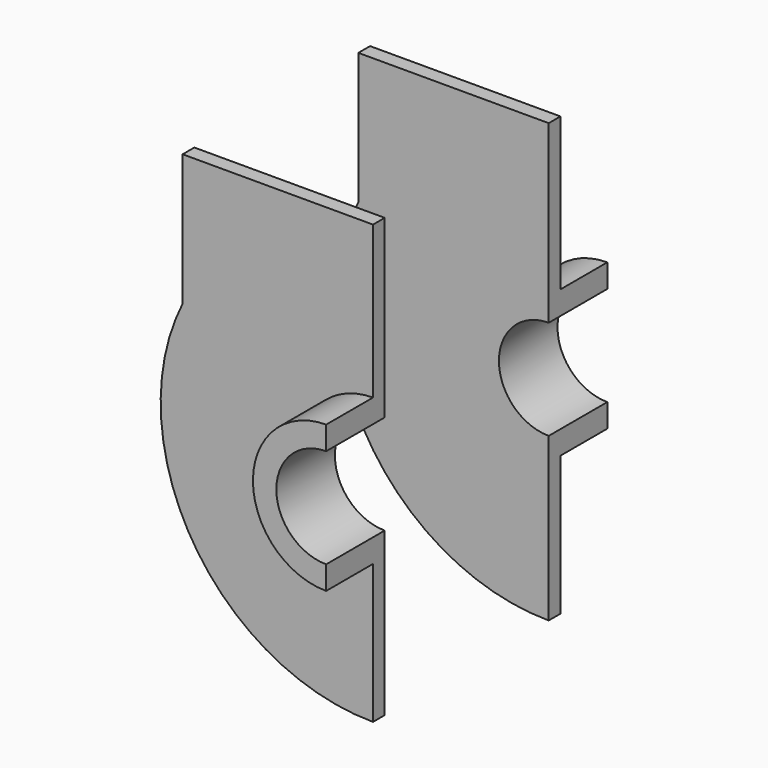
from build123d import *

# Parameters (mm, degrees)
F1_DEPTH      = 20
F1_DEPTH_BACK = 5
F3_DEPTH      = 5


with BuildPart() as f1:
    # F0 (on Front) → F1 (new body, two sides)
    with BuildSketch(Plane.XZ) as f1_sk:
        with BuildLine():
            Line((0, 17), (0, 25))
            ThreePointArc((0, 25), (-25, 0), (0, -25))
            Line((0, -25), (0, -17))
            ThreePointArc((0, -17), (-17, 0), (0, 17))
        make_face()
    extrude(amount=F1_DEPTH)
    extrude(f1_sk.sketch, amount=-F1_DEPTH_BACK)

    # F2 (on Front) → F3 (join)
    with BuildSketch(Plane.XZ):
        with BuildLine():
            Line((-65, 77), (-65, 32.113081))
            ThreePointArc((-65, 32.113081), (-61.581038, -38.26259), (0, -72.5))
            Line((0, -72.5), (0, -25))
            ThreePointArc((0, -25), (-25, 0), (0, 25))
            Line((0, 25), (0, 77))
            Line((0, 77), (-65, 77))
        make_face()
    extrude(amount=-F3_DEPTH)


with BuildPart() as f5_1:
    # F5: instance of F1
    add(f1.part.mirror(Plane.XZ.offset(-40)))


solid = Compound([f1.part, f5_1.part])
